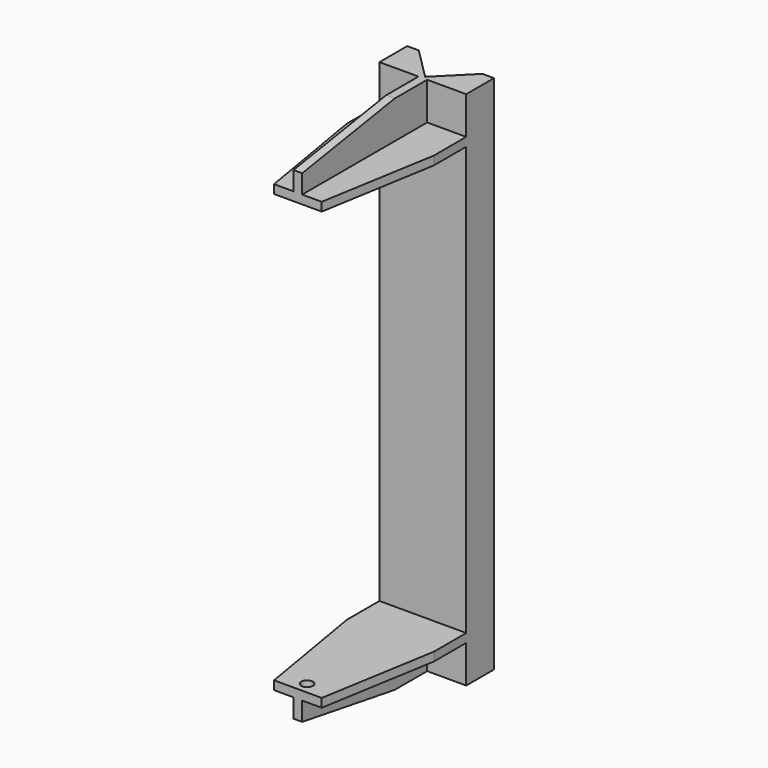
from build123d import *

# Parameters (mm, degrees)
F0_W      = 150
F0_H      = 900
F1_DEPTH  = 80
F2_W      = 15
F2_H      = 65
F3_DEPTH  = 270
F5_DEPTH  = 25
F7_DEPTH  = 25
F9_DEPTH  = 25
F11_DEPTH = 25
F13_DEPTH = 25
F15_DEPTH = 25
F16_R     = 10
F17_DEPTH = 10
F18_R     = 10
F19_DEPTH = 10
F21_DEPTH = 900.001


with BuildPart() as f1:
    # F0 (on Front) → F1 (new body)
    with BuildSketch(Plane.XZ):
        with Locations((75, -450)):
            Rectangle(F0_W, F0_H)
    extrude(amount=F1_DEPTH)

    # F2 (on face) → F3 (join)
    with BuildSketch(Plane.XZ.offset(80)):
        Polygon((67.5, -65), (0, -65), (0, -80), (150, -80), (150, -65), (82.5, -65), align=None)
        with Locations((75, -32.5)):
            Rectangle(F2_W, F2_H)
        Polygon((150, -820), (0, -820), (0, -835), (67.5, -835), (82.5, -835), (150, -835), align=None)
        with Locations((75, -867.5)):
            Rectangle(F2_W, F2_H)
    extrude(amount=F3_DEPTH)

    # F4 (on face) → F5 (cut)
    with BuildSketch(Plane(origin=(67.5, 0, 0), x_dir=(0, -1, 0), z_dir=(-1, 0, 0))):
        Polygon((350, 0), (150, 0), (350, -32.5), align=None)
    extrude(amount=-F5_DEPTH, mode=Mode.SUBTRACT)

    # F6 (on face) → F7 (cut)
    with BuildSketch(Plane.XY.offset(-65)):
        Polygon((150, -150), (116.25, -350), (150, -350), align=None)
    extrude(amount=-F7_DEPTH, mode=Mode.SUBTRACT)

    # F8 (on face) → F9 (cut)
    with BuildSketch(Plane.XY.offset(-65)):
        Polygon((0, -350), (33.75, -350), (0, -150), align=None)
    extrude(amount=-F9_DEPTH, mode=Mode.SUBTRACT)

    # F10 (on face) → F11 (cut)
    with BuildSketch(Plane(origin=(0, 0, -835), x_dir=(1, 0, 0), z_dir=(0, 0, -1))):
        Polygon((150, 350), (116.25, 350), (150, 150), align=None)
    extrude(amount=-F11_DEPTH, mode=Mode.SUBTRACT)

    # F12 (on face) → F13 (cut)
    with BuildSketch(Plane(origin=(0, 0, -835), x_dir=(1, 0, 0), z_dir=(0, 0, -1))):
        Polygon((0, 150), (33.75, 350), (0, 350), align=None)
    extrude(amount=-F13_DEPTH, mode=Mode.SUBTRACT)

    # F14 (on face) → F15 (cut)
    with BuildSketch(Plane(origin=(67.5, 0, 0), x_dir=(0, -1, 0), z_dir=(-1, 0, 0))):
        Polygon((350, -900), (350, -867.5), (150, -900), align=None)
    extrude(amount=-F15_DEPTH, mode=Mode.SUBTRACT)

    # F16 (on face) → F17 (cut)
    with BuildSketch(Plane(origin=(0, 0, -80), x_dir=(1, 0, 0), z_dir=(0, 0, -1))):
        with Locations((75, 330)):
            Circle(F16_R)
    extrude(amount=-F17_DEPTH, mode=Mode.SUBTRACT)

    # F18 (on face) → F19 (cut)
    with BuildSketch(Plane.XY.offset(-820)):
        with Locations((75, -330)):
            Circle(F18_R)
    extrude(amount=-F19_DEPTH, mode=Mode.SUBTRACT)

    # F20 (on face) → F21 (cut, through all)
    with BuildSketch(Plane.XY):
        Polygon((130, -20), (20, -20), (75, -75), align=None)
        Polygon((150, 0), (0, 0), (20, -20), (130, -20), align=None)
        Polygon((130, -20), (20, -20), (75, -75), align=None)
        Polygon((20, -20), (0, 0), (0, -20), align=None)
        Polygon((150, 0), (0, 0), (20, -20), (130, -20), align=None)
        Polygon((150, -20), (150, 0), (130, -20), align=None)
    extrude(amount=-F21_DEPTH, mode=Mode.SUBTRACT)


solid = f1.part
